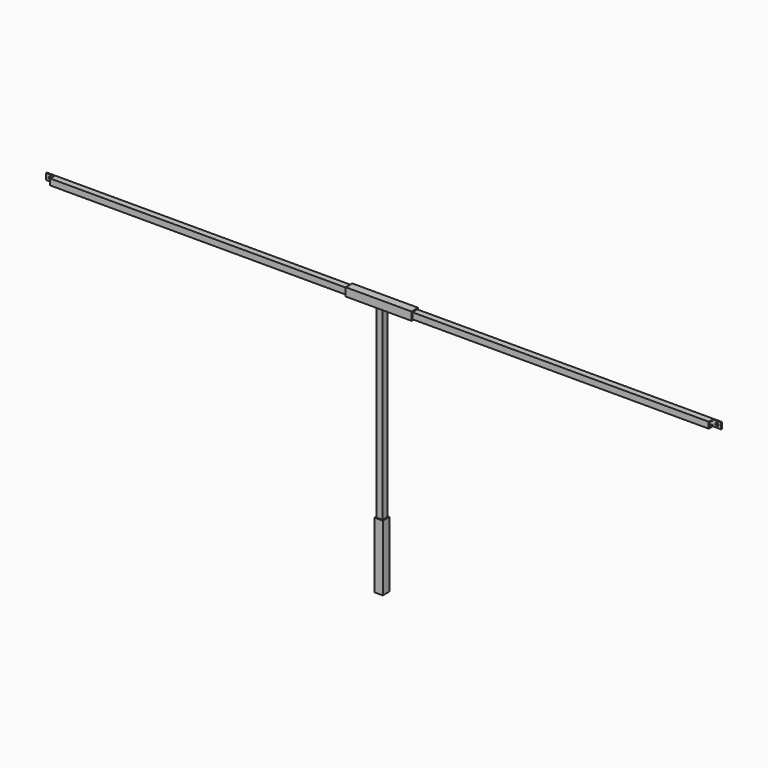
from build123d import *

# Parameters (mm, degrees)
SKETCH_W        = 19.05
SKETCH_H        = 19.05
SKETCH_W_2      = 12.7
SKETCH_H_2      = 12.7
PAD_DEPTH       = 1041.4
SKETCH001_W     = 15.875
SKETCH001_H     = 25.4
POCKET_DEPTH    = 2102.547835
SKETCH002_R     = 4.7625
POCKET001_DEPTH = 2086.672835
SKETCH003_W     = 25.4
SKETCH003_H     = 25.4
SKETCH003_W_2   = 19.05
SKETCH003_H_2   = 19.05
PAD001_DEPTH    = 101.6
SKETCH004_W     = 19.05
SKETCH004_H     = 19.05
SKETCH004_W_2   = 12.7
SKETCH004_H_2   = 12.7
PAD002_DEPTH    = 676.275
SKETCH005_W     = 4.7625
SKETCH005_H     = 19.05
POCKET002_DEPTH = 15.875
SKETCH006_W     = 25.4
SKETCH006_H     = 25.4
SKETCH006_W_2   = 18.835748
SKETCH006_H_2   = 18.835748
PAD003_DEPTH    = 101.6


with BuildPart() as crossbeam:
    # Sketch → Pad (new body)
    with BuildSketch(Plane.YZ):
        with Locations((0, 685.8)):
            Rectangle(SKETCH_W, SKETCH_H)
        with Locations((0, 685.8)):
            Rectangle(SKETCH_W_2, SKETCH_H_2, mode=Mode.SUBTRACT)
    pad = extrude(amount=PAD_DEPTH)

    # Sketch001 (on Face1 of Pad) → Pocket (cut, through all)
    with BuildSketch(Plane(origin=(0, 0, 695.325), x_dir=(0, -1, 0), z_dir=(0, 0, 1))):
        with Locations((1.5875, 1028.7)):
            Rectangle(SKETCH001_W, SKETCH001_H)
    pocket = extrude(amount=-POCKET_DEPTH, mode=Mode.SUBTRACT)

    # Sketch002 (on Face13 of Pocket) → Pocket001 (cut, through all)
    with BuildSketch(Plane(origin=(0, 6.35, 0), x_dir=(0, 0, -1), z_dir=(0, -1, 0))):
        with Locations((-685.8, 1028.7)):
            Circle(SKETCH002_R)
    pocket001 = extrude(amount=-POCKET001_DEPTH, mode=Mode.SUBTRACT)

    # Mirrored: Pad, Pocket, Pocket001 across Sketch002 H_Axis
    add(pad.mirror(Plane(origin=(0, 6.35, 0), x_dir=(0, -1, 0), z_dir=(1, 0, 0))))
    add(pocket.mirror(Plane(origin=(0, 6.35, 0), x_dir=(0, -1, 0), z_dir=(1, 0, 0))), mode=Mode.SUBTRACT)
    add(pocket001.mirror(Plane(origin=(0, 6.35, 0), x_dir=(0, -1, 0), z_dir=(1, 0, 0))), mode=Mode.SUBTRACT)


with BuildPart() as carriage:
    # Sketch003 → Pad001 (new body, symmetric)
    with BuildSketch(Plane.YZ):
        with Locations((0, 685.8)):
            Rectangle(SKETCH003_W, SKETCH003_H)
        with Locations((0, 685.8)):
            Rectangle(SKETCH003_W_2, SKETCH003_H_2, mode=Mode.SUBTRACT)
    extrude(amount=PAD001_DEPTH, both=True)

    # Sketch004 (on Face3 of Pad001) → Pad002 (join)
    with BuildSketch(Plane.YX.offset(-673.1)):
        Rectangle(SKETCH004_W, SKETCH004_H)
        Rectangle(SKETCH004_W_2, SKETCH004_H_2, mode=Mode.SUBTRACT)
    extrude(amount=PAD002_DEPTH)

    # Sketch005 (on Face15 of Pad002) → Pocket002 (cut)
    with BuildSketch(Plane.YX.offset(3.175)):
        Rectangle(SKETCH005_W, SKETCH005_H)
    extrude(amount=-POCKET002_DEPTH, mode=Mode.SUBTRACT)


with BuildPart() as body002:
    # Sketch006 → Pad003 (new body, symmetric)
    with BuildSketch(Plane.XY):
        Rectangle(SKETCH006_W, SKETCH006_H)
        Rectangle(SKETCH006_W_2, SKETCH006_H_2, mode=Mode.SUBTRACT)
    extrude(amount=PAD003_DEPTH, both=True)


solid = Compound([crossbeam.part, carriage.part, body002.part])
